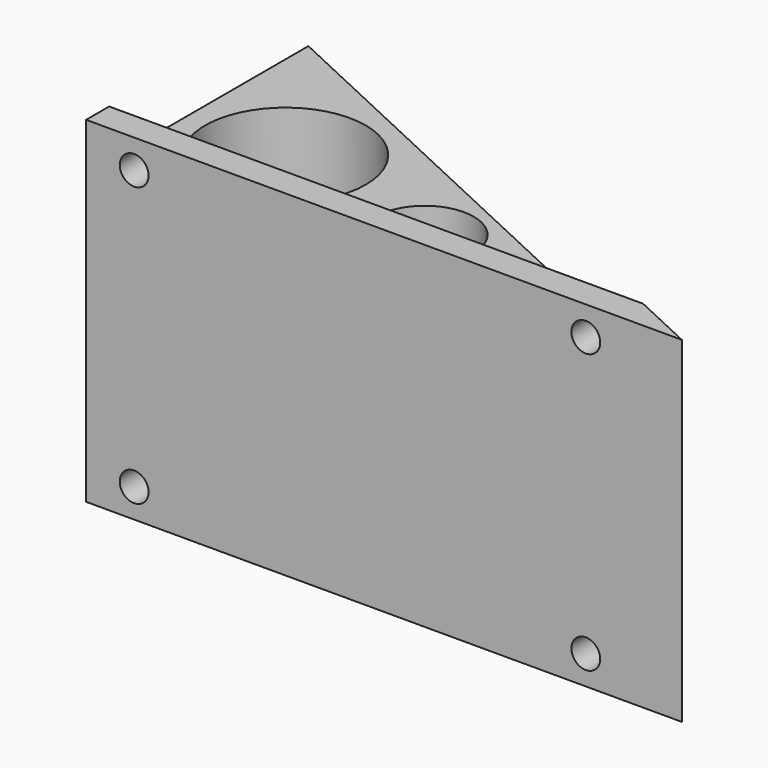
from build123d import *

# Parameters (mm, degrees)
PAD_DEPTH       = 17.5
POCKET_DEPTH    = 5
POCKET001_DEPTH = 5
SKETCH003_R     = 1.5
POCKET002_DEPTH = 3.001
SKETCH005_R     = 8.354384
SKETCH005_R_2   = 5.120413
SKETCH005_R_3   = 2.670225
POCKET004_DEPTH = 30.001
FILLET_R        = 2


with BuildPart() as part:
    # Sketch → Pad (new body, symmetric)
    with BuildSketch(Plane.XY):
        Polygon((-1.824811, 2.017518), (-1.824811, -26.893557), (60.175189, -26.893557), align=None)
    extrude(amount=PAD_DEPTH, both=True)

    # Sketch001 → Pocket (cut)
    with BuildSketch(Plane.XY.offset(17.5)):
        Polygon((-1.824811, 2.017518), (-1.824811, -23.893557), (53.741669, -23.893557), align=None)
    extrude(amount=-POCKET_DEPTH, mode=Mode.SUBTRACT)

    # Sketch002 → Pocket001 (cut)
    with BuildSketch(Plane(origin=(0, 0, -17.5), x_dir=(1, 0, 0), z_dir=(0, 0, -1))):
        Polygon((53.741669, 23.893557), (-1.824811, 23.893557), (-1.824811, -2.017518), align=None)
    extrude(amount=-POCKET001_DEPTH, mode=Mode.SUBTRACT)

    # Sketch003 → Pocket002 (cut, through all)
    with BuildSketch(Plane(origin=(0, -23.893557, 0), x_dir=(-1, 0, 0), z_dir=(0, 1, 0))):
        with Locations((-50.175189, 14.5)):
            Circle(SKETCH003_R)
        with Locations((-3.175189, 14.5)):
            Circle(SKETCH003_R)
        with Locations((-50.175189, -14.5)):
            Circle(SKETCH003_R)
        with Locations((-3.175189, -14.5)):
            Circle(SKETCH003_R)
    extrude(amount=-POCKET002_DEPTH, mode=Mode.SUBTRACT)

    # Sketch005 → Pocket004 (cut, through all)
    with BuildSketch(Plane.XY.offset(12.5)):
        with Locations((8.700624, -14.118617)):
            Circle(SKETCH005_R)
        with Locations((26.303152, -18.020678)):
            Circle(SKETCH005_R_2)
        with Locations((38.438648, -20.737577)):
            Circle(SKETCH005_R_3)
    extrude(amount=-POCKET004_DEPTH, mode=Mode.SUBTRACT)

    # Fillet
    fillet_edges = [part.edges().sort_by_distance(p)[0] for p in [
        (25.958429, -23.893557, -17.5),
    ]]
    fillet(fillet_edges, radius=FILLET_R)


solid = part.part
